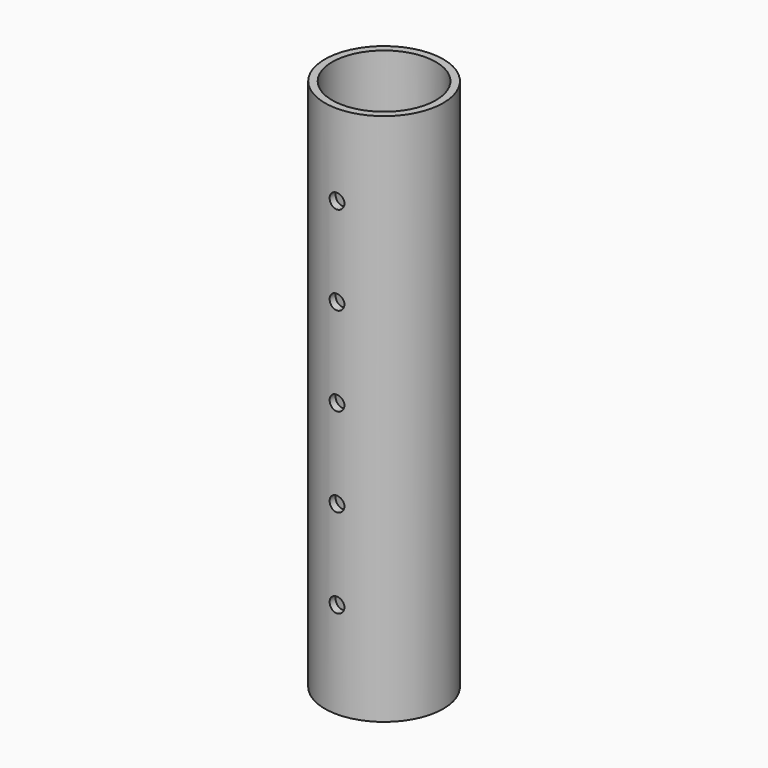
from build123d import *

# Parameters (mm, degrees)
F0_R     = 50.8
F0_R_2   = 44.45
F2_DEPTH = 457.2
F1_R     = 6.35
F3_DEPTH = 50.801
F4_DEPTH = 50.801


with BuildPart() as f2:
    # F0 (on Top) → F2 (new body)
    with BuildSketch(Plane.XY):
        Circle(F0_R)
        Circle(F0_R_2, mode=Mode.SUBTRACT)
    extrude(amount=F2_DEPTH)

    # F1 (on Front) → F3 (cut, through all)
    with BuildSketch(Plane.XZ):
        with Locations((0, 82.55)):
            Circle(F1_R)
        with Locations((0, 158.75)):
            Circle(F1_R)
        with Locations((0, 234.95)):
            Circle(F1_R)
        with Locations((0, 311.15)):
            Circle(F1_R)
        with Locations((0, 387.35)):
            Circle(F1_R)
    extrude(amount=F3_DEPTH, mode=Mode.SUBTRACT)

    # F1 (on Front) → F4 (cut, through all)
    with BuildSketch(Plane.XZ):
        with Locations((0, 82.55)):
            Circle(F1_R)
        with Locations((0, 158.75)):
            Circle(F1_R)
        with Locations((0, 234.95)):
            Circle(F1_R)
        with Locations((0, 311.15)):
            Circle(F1_R)
        with Locations((0, 387.35)):
            Circle(F1_R)
    extrude(amount=-F4_DEPTH, mode=Mode.SUBTRACT)


solid = f2.part
